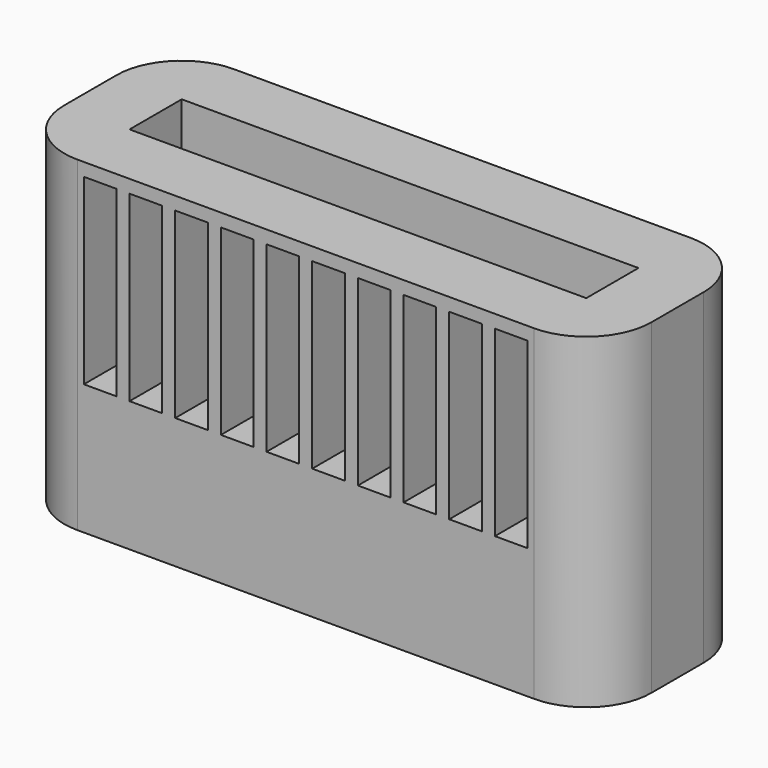
from build123d import *

# Parameters (mm, degrees)
F0_W     = 114.3
F0_H     = 38.1
F0_W_2   = 88.9
F0_H_2   = 12.7
F1_DEPTH = 63.5
F2_DEPTH = 12.7
F3_W     = 6.35
F3_H     = 35.56
F4_DEPTH = 15.24
F5_W     = 11.176
F5_H     = 6.35
F6_DEPTH = 12.701
F7_W     = 11.176
F7_H     = 10.16
F8_DEPTH = 18.288
F9_R     = 12.7


with BuildPart() as f1:
    # F0 (on Top) → F1 (new body)
    with BuildSketch(Plane.XY):
        with Locations((57.15, -19.05)):
            Rectangle(F0_W, F0_H)
        with Locations((57.15, -19.05)):
            Rectangle(F0_W_2, F0_H_2, mode=Mode.SUBTRACT)
    extrude(amount=F1_DEPTH)

    # F0 (on Top) → F2 (join)
    with BuildSketch(Plane.XY):
        with Locations((57.15, -19.05)):
            Rectangle(F0_W_2, F0_H_2)
    extrude(amount=F2_DEPTH)

    # F3 (on face) → F4 (cut)
    with BuildSketch(Plane.XZ.offset(38.1)):
        with Locations((17.145, 43.18)):
            Rectangle(F3_W, F3_H)
        with Locations((26.035, 43.18)):
            Rectangle(F3_W, F3_H)
        with Locations((34.925, 43.18)):
            Rectangle(F3_W, F3_H)
        with Locations((43.815, 43.18)):
            Rectangle(F3_W, F3_H)
        with Locations((52.705, 43.18)):
            Rectangle(F3_W, F3_H)
        with Locations((61.595, 43.18)):
            Rectangle(F3_W, F3_H)
        with Locations((70.485, 43.18)):
            Rectangle(F3_W, F3_H)
        with Locations((79.375, 43.18)):
            Rectangle(F3_W, F3_H)
        with Locations((88.265, 43.18)):
            Rectangle(F3_W, F3_H)
        with Locations((97.155, 43.18)):
            Rectangle(F3_W, F3_H)
    extrude(amount=-F4_DEPTH, mode=Mode.SUBTRACT)

    # F5 (on face) → F6 (cut, through all)
    with BuildSketch(Plane.XY.offset(12.7)):
        with Locations((57.15, -19.05)):
            Rectangle(F5_W, F5_H)
    extrude(amount=-F6_DEPTH, mode=Mode.SUBTRACT)

    # F7 (on face) → F8 (cut)
    with BuildSketch(Plane(origin=(0, 0, 0), x_dir=(-1, 0, 0), z_dir=(0, 1, 0))):
        with Locations((-57.15, 5.08)):
            Rectangle(F7_W, F7_H)
    extrude(amount=-F8_DEPTH, mode=Mode.SUBTRACT)

    # F9
    f9_edges = [f1.edges().sort_by_distance(p)[0] for p in [
        (0, -38.1, 31.75),
        (0, 0, 31.75),
        (114.3, -38.1, 31.75),
        (114.3, 0, 31.75),
    ]]
    fillet(f9_edges, radius=F9_R)


solid = f1.part
